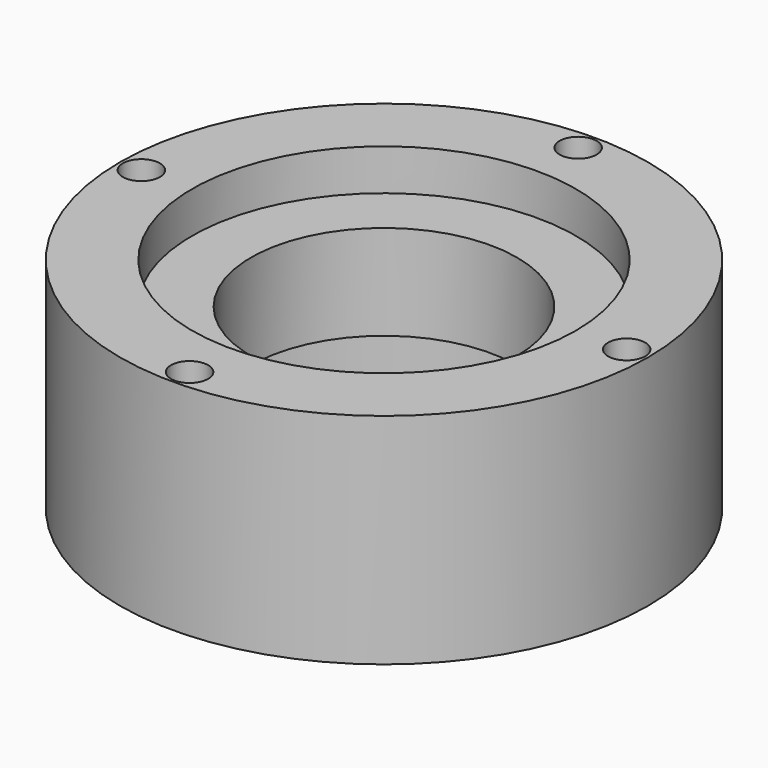
from build123d import *

# Parameters (mm, degrees)
F2_R     = 4.5
F3_DEPTH = 53


with BuildPart() as f1:
    # F0 (on Front) → F1 (revolve)
    with BuildSketch(Plane.XZ):
        with BuildLine():
            Line((52.25, 0), (64, 0))
            Line((64, 0), (64, 53))
            Line((64, 53), (46.5, 53))
            Line((46.5, 53), (46.5, 43))
            Line((46.5, 43), (32.25, 43))
            Line((32.25, 43), (32.25, 20))
            Line((32.25, 20), (40.25, 20))
            Line((40.25, 20), (40.91718, 21.00077))
            ThreePointArc((40.91718, 21.00077), (41.25, 21.17889), (41.58282, 21.00077))
            Line((41.58282, 21.00077), (42.25, 20))
            Line((42.25, 20), (52.25, 20))
            Line((52.25, 20), (52.25, 0))
        make_face()
    revolve(axis=Axis((0, 0, 26.5), (0, 0, 1)))

    # F2 (on face) → F3 (cut)
    with BuildSketch(Plane.XY.offset(53)):
        with Locations((0, 58.8)):
            Circle(F2_R)
        with Locations((58.8, 0)):
            Circle(F2_R)
        with Locations((0, -58.899999)):
            Circle(F2_R)
        with Locations((-58.8, 0)):
            Circle(F2_R)
    extrude(amount=-F3_DEPTH, mode=Mode.SUBTRACT)


solid = f1.part
